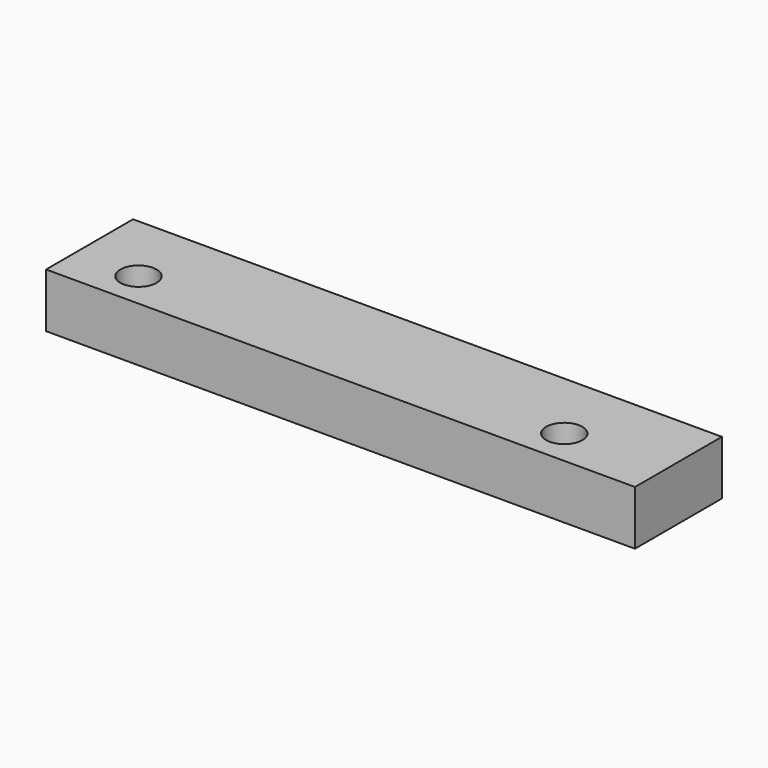
from build123d import *

# Parameters (mm, degrees)
F0_W           = 103.1875
F0_H           = 19.05
F1_DEPTH       = 9.525
F2_R           = 3.175
F3_DEPTH       = 9.525
F5_D           = 6.35
F5_CSINK_D     = 9.525
F5_CSINK_ANGLE = 90


with BuildPart() as f1:
    # F0 (on Top) → F1 (new body)
    with BuildSketch(Plane.XY):
        with Locations((-5.027081, -9.736668)):
            Rectangle(F0_W, F0_H)
    extrude(amount=F1_DEPTH)

    # F2 (on face) → F3 (cut)
    with BuildSketch(Plane.XY.offset(9.525)):
        with BuildLine():
            ThreePointArc((-42.333331, -12.911668), (-45.508331, -9.736668), (-48.683331, -12.911668))
            ThreePointArc((-48.683331, -12.911668), (-45.508331, -16.086668), (-42.333331, -12.911668))
        make_face()
        with Locations((29.104169, -12.911668)):
            Circle(F2_R)
    extrude(amount=-F3_DEPTH, mode=Mode.SUBTRACT)

    # F5 (through all)
    with Locations(Plane(origin=(0, 0, 0), x_dir=(1, 0, 0), z_dir=(0, 0, -1))):
        with Locations((-45.508331, 12.911668), (29.104169, 12.911668)):
            CounterSinkHole(F5_D / 2, F5_CSINK_D / 2, counter_sink_angle=F5_CSINK_ANGLE)


solid = f1.part
